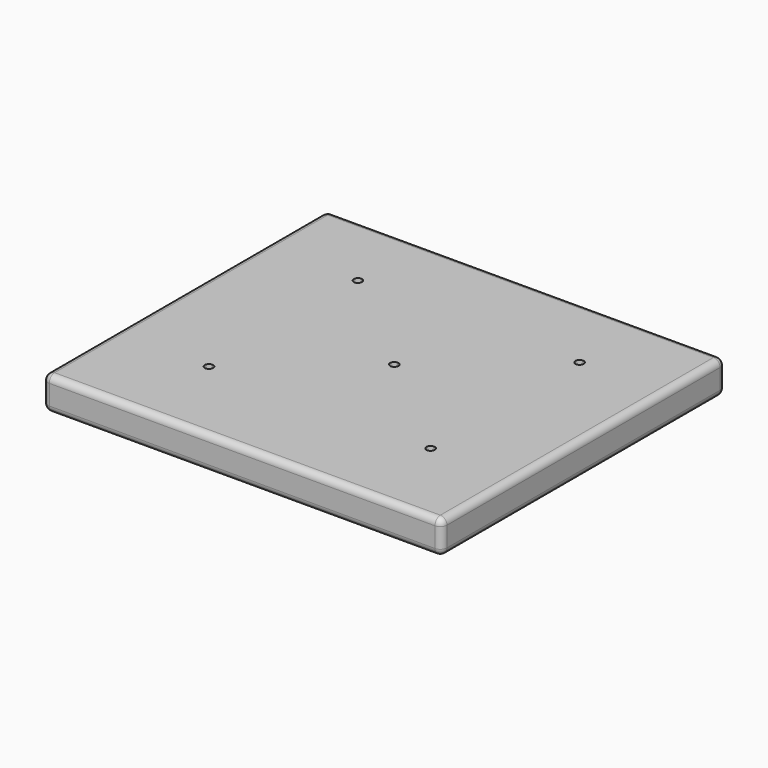
from build123d import *

# Parameters (mm, degrees)
F1_DEPTH = 38.1
F2_R     = 7.62


with BuildPart() as f1:
    # F0 (on Top) → F1 (new body)
    with BuildSketch(Plane.XY):
        with BuildLine():
            Line((-131.7625, -106.68), (-235.0059007668, -106.68))
            Line((-235.0059007668, -106.68), (-235.0059007668, -209.9367127657))
            Line((-235.0059007668, -209.9367127657), (-127, -209.9367127657))
            Line((-127, -209.9367127657), (-127, -111.4425))
            ThreePointArc((-127, -111.4425), (-130.3675960454, -110.0475960454), (-131.7625, -106.68))
        make_face()
        with BuildLine():
            Line((-127, -111.4425), (-127, -209.9367127657))
            Line((-127, -209.9367127657), (0, -209.9367127657))
            Line((0, -209.9367127657), (0, -106.68))
            Line((0, -106.68), (-122.2375, -106.68))
            ThreePointArc((-122.2375, -106.68), (-123.6324039546, -110.0475960454), (-127, -111.4425))
        make_face()
        with BuildLine():
            Line((-4.7625, 0), (-127, 0))
            Line((-127, 0), (-127, -101.9175))
            ThreePointArc((-127, -101.9175), (-123.6324039546, -103.3124039546), (-122.2375, -106.68))
            Line((-122.2375, -106.68), (0, -106.68))
            Line((0, -106.68), (0, -4.7625))
            ThreePointArc((0, -4.7625), (-3.3675960454, -3.3675960454), (-4.7625, 0))
        make_face()
        with BuildLine():
            Line((-127, 0), (-235.0059007668, 0))
            Line((-235.0059007668, 0), (-235.0059007668, -106.68))
            Line((-235.0059007668, -106.68), (-131.7625, -106.68))
            ThreePointArc((-131.7625, -106.68), (-130.3675960454, -103.3124039546), (-127, -101.9175))
            Line((-127, -101.9175), (-127, 0))
        make_face()
        with BuildLine():
            Line((-131.7625, 106.68), (-235.0059007668, 106.68))
            Line((-235.0059007668, 106.68), (-235.0059007668, 0))
            Line((-235.0059007668, 0), (-127, 0))
            Line((-127, 0), (-127, 101.9175))
            ThreePointArc((-127, 101.9175), (-130.3675960454, 103.3124039546), (-131.7625, 106.68))
        make_face()
        with BuildLine():
            Line((0, 4.7625), (0, 106.68))
            Line((0, 106.68), (-122.2375, 106.68))
            ThreePointArc((-122.2375, 106.68), (-123.6324039546, 103.3124039546), (-127, 101.9175))
            Line((-127, 101.9175), (-127, 0))
            Line((-127, 0), (-4.7625, 0))
            ThreePointArc((-4.7625, 0), (-3.3675960454, 3.3675960454), (0, 4.7625))
        make_face()
        with BuildLine():
            Line((0, 196.4632872343), (-127, 196.4632872343))
            Line((-127, 196.4632872343), (-127, 111.4425))
            ThreePointArc((-127, 111.4425), (-123.6324039546, 110.0475960454), (-122.2375, 106.68))
            Line((-122.2375, 106.68), (0, 106.68))
            Line((0, 106.68), (0, 196.4632872343))
        make_face()
        with BuildLine():
            Line((-127, 196.4632872343), (-235.0059007668, 196.4632872343))
            Line((-235.0059007668, 196.4632872343), (-235.0059007668, 106.68))
            Line((-235.0059007668, 106.68), (-131.7625, 106.68))
            ThreePointArc((-131.7625, 106.68), (-130.3675960454, 110.0475960454), (-127, 111.4425))
            Line((-127, 111.4425), (-127, 196.4632872343))
        make_face()
        with BuildLine():
            Line((222.1940992332, 196.4632872343), (127, 196.4632872343))
            Line((127, 196.4632872343), (127, 111.4425))
            ThreePointArc((127, 111.4425), (130.3675960454, 110.0475960454), (131.7625, 106.68))
            Line((131.7625, 106.68), (222.1940992332, 106.68))
            Line((222.1940992332, 106.68), (222.1940992332, 196.4632872343))
        make_face()
        with BuildLine():
            Line((127, 196.4632872343), (0, 196.4632872343))
            Line((0, 196.4632872343), (0, 106.68))
            Line((0, 106.68), (122.2375, 106.68))
            ThreePointArc((122.2375, 106.68), (123.6324039546, 110.0475960454), (127, 111.4425))
            Line((127, 111.4425), (127, 196.4632872343))
        make_face()
        with BuildLine():
            Line((122.2375, 106.68), (0, 106.68))
            Line((0, 106.68), (0, 4.7625))
            ThreePointArc((0, 4.7625), (3.3675960454, 3.3675960454), (4.7625, 0))
            Line((4.7625, 0), (127, 0))
            Line((127, 0), (127, 101.9175))
            ThreePointArc((127, 101.9175), (123.6324039546, 103.3124039546), (122.2375, 106.68))
        make_face()
        with BuildLine():
            Line((222.1940992332, 0), (222.1940992332, 106.68))
            Line((222.1940992332, 106.68), (131.7625, 106.68))
            ThreePointArc((131.7625, 106.68), (130.3675960454, 103.3124039546), (127, 101.9175))
            Line((127, 101.9175), (127, 0))
            Line((127, 0), (222.1940992332, 0))
        make_face()
        with BuildLine():
            Line((127, 0), (4.7625, 0))
            ThreePointArc((4.7625, 0), (3.3675960454, -3.3675960454), (0, -4.7625))
            Line((0, -4.7625), (0, -106.68))
            Line((0, -106.68), (122.2375, -106.68))
            ThreePointArc((122.2375, -106.68), (123.6324039546, -103.3124039546), (127, -101.9175))
            Line((127, -101.9175), (127, 0))
        make_face()
        with BuildLine():
            Line((222.1940992332, -106.68), (222.1940992332, 0))
            Line((222.1940992332, 0), (127, 0))
            Line((127, 0), (127, -101.9175))
            ThreePointArc((127, -101.9175), (130.3675960454, -103.3124039546), (131.7625, -106.68))
            Line((131.7625, -106.68), (222.1940992332, -106.68))
        make_face()
        with BuildLine():
            Line((0, -106.68), (0, -209.9367127657))
            Line((0, -209.9367127657), (127, -209.9367127657))
            Line((127, -209.9367127657), (127, -111.4425))
            ThreePointArc((127, -111.4425), (123.6324039546, -110.0475960454), (122.2375, -106.68))
            Line((122.2375, -106.68), (0, -106.68))
        make_face()
        with BuildLine():
            Line((222.1940992332, -209.9367127657), (222.1940992332, -106.68))
            Line((222.1940992332, -106.68), (131.7625, -106.68))
            ThreePointArc((131.7625, -106.68), (130.3675960454, -110.0475960454), (127, -111.4425))
            Line((127, -111.4425), (127, -209.9367127657))
            Line((127, -209.9367127657), (222.1940992332, -209.9367127657))
        make_face()
    extrude(amount=F1_DEPTH)

    # F2
    f2_edges = [f1.edges().sort_by_distance(p)[0] for p in [
        (222.194099, -6.736713, 38.1),
        (222.194099, -6.736713, 0),
        (-6.405901, -209.936713, 0),
        (222.194099, -209.936713, 19.05),
        (-6.405901, -209.936713, 38.1),
        (-6.405901, 196.463287, 38.1),
        (222.194099, 196.463287, 19.05),
        (-235.005901, -6.736713, 38.1),
        (-235.005901, -209.936713, 19.05),
        (-235.005901, -6.736713, 0),
        (-235.005901, 196.463287, 19.05),
        (-6.405901, 196.463287, 0),
    ]]
    fillet(f2_edges, radius=F2_R)


solid = f1.part
